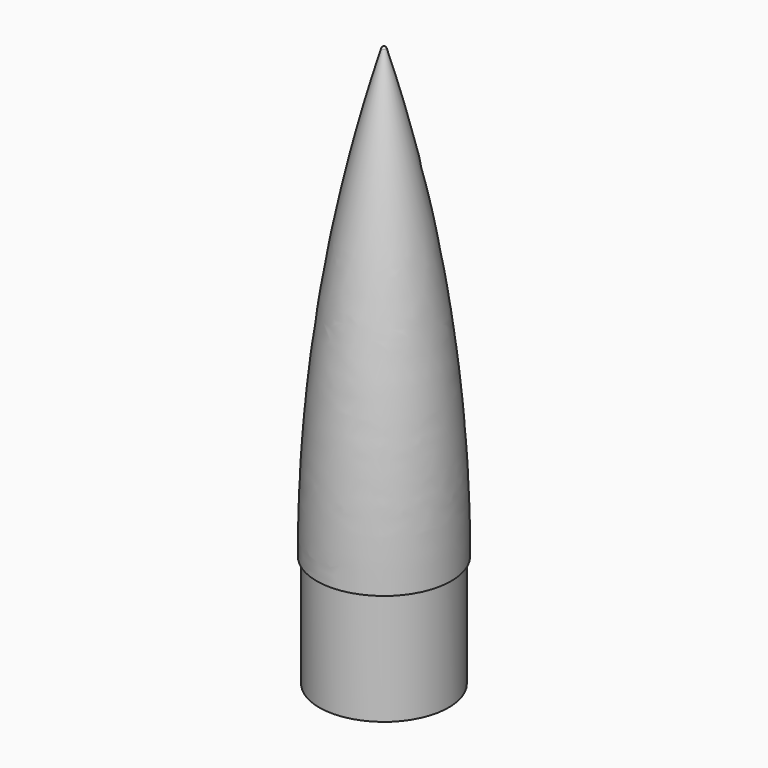
from build123d import *

# Parameters (mm, degrees)
THICKNESS_T = -0.8


with BuildPart() as part:
    # Sketch (on XZ_Plane of Origin) → Revolution (revolve)
    with BuildSketch(Plane.XZ):
        with BuildLine():
            Line((-28.85, 0), (-28.85, -50))
            Line((-28.85, -50), (0, -50))
            Line((0, -50), (0, 0))
            Line((0, 200), (0, 0))
            ThreePointArc((0, 200), (-0.597747, 199.801685), (-0.95841, 199.285396))
            ThreePointArc((-0.95841, 199.285396), (-22.701459, 100.695188), (-30, 0))
            Line((-28.85, 0), (-30, 0))
        make_face()
    revolve(axis=Axis((0, 0, 0), (0, 0, 1)))

    # Thickness
    thickness_openings = [part.faces().sort_by_distance(p)[0] for p in [
        (0, 0, -50),
    ]]
    offset(amount=THICKNESS_T, openings=thickness_openings, kind=Kind.INTERSECTION)


solid = part.part
